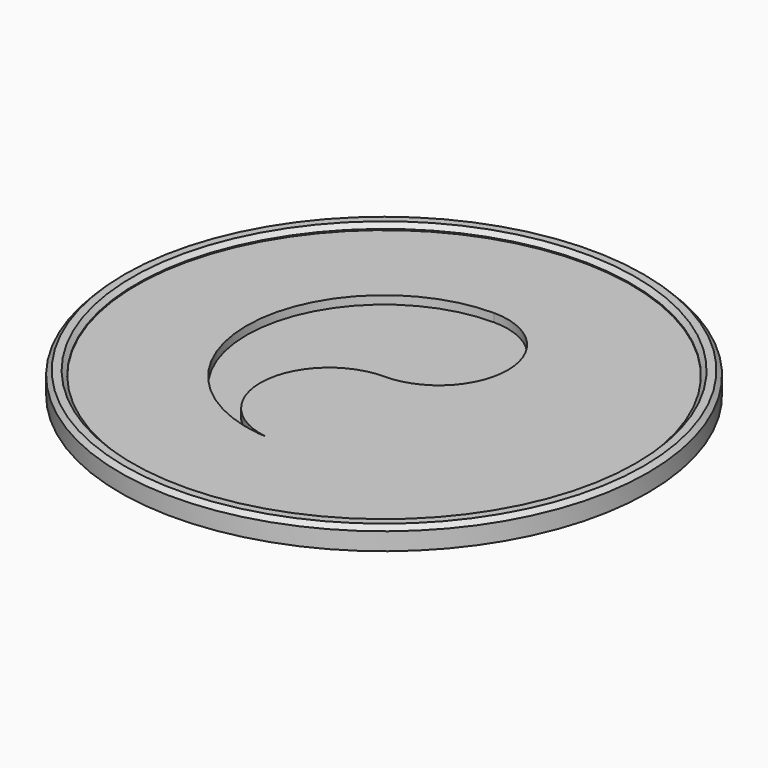
from build123d import *

# Parameters (mm, degrees)
F0_R     = 48
F1_DEPTH = 3
F2_R     = 48
F2_R_2   = 45
F3_DEPTH = 4
F4_SIZE  = 0.8
F6_DEPTH = 1.5


with BuildPart() as f1:
    # F0 (on Top) → F1 (new body)
    with BuildSketch(Plane.XY):
        Circle(F0_R)
    extrude(amount=F1_DEPTH)

    # F2 (on Top) → F3 (join)
    with BuildSketch(Plane.XY):
        Circle(F2_R)
        Circle(F2_R_2, mode=Mode.SUBTRACT)
    extrude(amount=F3_DEPTH)

    # F4
    f4_edges = [f1.edges().sort_by_distance(p)[0] for p in [
        (-48, 0, 4),
        (-45, 0, 4),
    ]]
    chamfer(f4_edges, length=F4_SIZE)

    # F5 (on face) → F6 (cut)
    with BuildSketch(Plane.XY.offset(3)):
        with BuildLine():
            ThreePointArc((0, -25), (-12.5, -12.5), (0, 0))
            ThreePointArc((0, 0), (12.5, 12.5), (0, 25))
            ThreePointArc((0, 25), (-25, 0), (0, -25))
        make_face()
    extrude(amount=-F6_DEPTH, mode=Mode.SUBTRACT)


solid = f1.part
